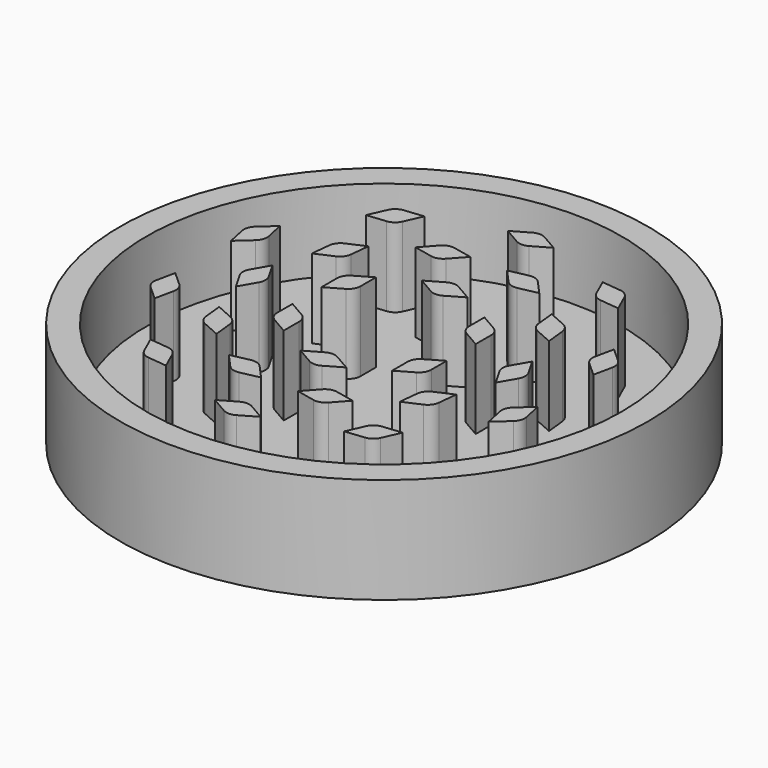
from build123d import *

# Parameters (mm, degrees)
F1_DEPTH = 6
F0_R     = 15
F0_R_2   = 13.5
F2_DEPTH = 6
F3_DEPTH = 1.5
F4_DEPTH = 6


with BuildPart() as f1:
    # F0 (on Top) → F1 (new body)
    with BuildSketch(Plane.XY):
        with BuildLine():
            Line((-6.720201, 8.670013), (-7.165926, 7.6689))
            Line((-7.165926, 7.6689), (-6.076074, 7.783448))
            ThreePointArc((-6.076074, 7.783448), (-5.737794, 7.913301), (-5.509762, 8.194897))
            Line((-5.509762, 8.194897), (-5.064038, 9.19601))
            Line((-5.064038, 9.19601), (-6.153889, 9.081462))
            ThreePointArc((-6.153889, 9.081462), (-6.492169, 8.951609), (-6.720201, 8.670013))
        make_face()
        with BuildLine():
            ThreePointArc((0.35, 10.96726), (0, 11.061043), (-0.35, 10.96726))
            Line((-0.35, 10.96726), (-1.299038, 10.419333))
            Line((-1.299038, 10.419333), (-0.35, 9.871406))
            ThreePointArc((-0.35, 9.871406), (0, 9.777623), (0.35, 9.871406))
            Line((0.35, 9.871406), (1.299038, 10.419333))
            Line((1.299038, 10.419333), (0.35, 10.96726))
        make_face()
        with BuildLine():
            Line((6.153889, 9.081462), (5.064038, 9.19601))
            Line((5.064038, 9.19601), (5.509762, 8.194897))
            ThreePointArc((5.509762, 8.194897), (5.737794, 7.913301), (6.076074, 7.783448))
            Line((6.076074, 7.783448), (7.165926, 7.6689))
            Line((7.165926, 7.6689), (6.720201, 8.670013))
            ThreePointArc((6.720201, 8.670013), (6.492169, 8.951609), (6.153889, 9.081462))
        make_face()
        with BuildLine():
            Line((10.307202, 3.73293), (9.492823, 4.4662))
            Line((9.492823, 4.4662), (9.264982, 3.394292))
            ThreePointArc((9.264982, 3.394292), (9.283946, 3.032442), (9.481294, 2.728552))
            Line((9.481294, 2.728552), (10.295673, 1.995282))
            Line((10.295673, 1.995282), (10.523514, 3.06719))
            ThreePointArc((10.523514, 3.06719), (10.50455, 3.42904), (10.307202, 3.73293))
        make_face()
        with BuildLine():
            Line((10.523514, -3.03538), (10.295673, -1.963473))
            Line((10.295673, -1.963473), (9.481294, -2.696743))
            ThreePointArc((9.481294, -2.696743), (9.283946, -3.000632), (9.264982, -3.362482))
            Line((9.264982, -3.362482), (9.492823, -4.43439))
            Line((9.492823, -4.43439), (10.307202, -3.70112))
            ThreePointArc((10.307202, -3.70112), (10.50455, -3.397231), (10.523514, -3.03538))
        make_face()
        with BuildLine():
            Line((6.720201, -8.638203), (7.165926, -7.63709))
            Line((7.165926, -7.63709), (6.076074, -7.751638))
            ThreePointArc((6.076074, -7.751638), (5.737794, -7.881491), (5.509762, -8.163088))
            Line((5.509762, -8.163088), (5.064038, -9.164201))
            Line((5.064038, -9.164201), (6.153889, -9.049653))
            ThreePointArc((6.153889, -9.049653), (6.492169, -8.919799), (6.720201, -8.638203))
        make_face()
        with BuildLine():
            Line((0.35, -10.935451), (1.299038, -10.387523))
            Line((1.299038, -10.387523), (0.35, -9.839596))
            ThreePointArc((0.35, -9.839596), (0, -9.745814), (-0.35, -9.839596))
            Line((-0.35, -9.839596), (-1.299038, -10.387523))
            Line((-1.299038, -10.387523), (-0.35, -10.935451))
            ThreePointArc((-0.35, -10.935451), (0, -11.029233), (0.35, -10.935451))
        make_face()
        with BuildLine():
            Line((-6.153889, -9.049653), (-5.064038, -9.164201))
            Line((-5.064038, -9.164201), (-5.509762, -8.163088))
            ThreePointArc((-5.509762, -8.163088), (-5.737794, -7.881491), (-6.076074, -7.751638))
            Line((-6.076074, -7.751638), (-7.165926, -7.63709))
            Line((-7.165926, -7.63709), (-6.720201, -8.638203))
            ThreePointArc((-6.720201, -8.638203), (-6.492169, -8.919799), (-6.153889, -9.049653))
        make_face()
        with BuildLine():
            Line((-10.307202, -3.70112), (-9.492823, -4.43439))
            Line((-9.492823, -4.43439), (-9.264982, -3.362482))
            ThreePointArc((-9.264982, -3.362482), (-9.283946, -3.000632), (-9.481294, -2.696743))
            Line((-9.481294, -2.696743), (-10.295673, -1.963473))
            Line((-10.295673, -1.963473), (-10.523514, -3.03538))
            ThreePointArc((-10.523514, -3.03538), (-10.50455, -3.397231), (-10.307202, -3.70112))
        make_face()
        with BuildLine():
            Line((-10.523514, 3.06719), (-10.295673, 1.995282))
            Line((-10.295673, 1.995282), (-9.481294, 2.728552))
            ThreePointArc((-9.481294, 2.728552), (-9.283946, 3.032442), (-9.264982, 3.394292))
            Line((-9.264982, 3.394292), (-9.492823, 4.4662))
            Line((-9.492823, 4.4662), (-10.307202, 3.73293))
            ThreePointArc((-10.307202, 3.73293), (-10.50455, 3.42904), (-10.523514, 3.06719))
        make_face()
    extrude(amount=F1_DEPTH)


with BuildPart() as f2:
    # F0 (on Top) → F2 (new body)
    with BuildSketch(Plane.XY):
        Circle(F0_R)
        Circle(F0_R_2, mode=Mode.SUBTRACT)
    extrude(amount=F2_DEPTH)


with BuildPart() as f3:
    # F0 (on Top) → F3 (new body)
    with BuildSketch(Plane.XY):
        Circle(F0_R_2)
        with BuildLine():
            Line((-5.509762, -8.163088), (-5.064038, -9.164201))
            Line((-5.064038, -9.164201), (-6.153889, -9.049653))
            ThreePointArc((-6.153889, -9.049653), (-6.492169, -8.919799), (-6.720201, -8.638203))
            Line((-6.720201, -8.638203), (-7.165926, -7.63709))
            Line((-7.165926, -7.63709), (-6.076074, -7.751638))
            ThreePointArc((-6.076074, -7.751638), (-5.737794, -7.881491), (-5.509762, -8.163088))
        make_face(mode=Mode.SUBTRACT)
        with BuildLine():
            Line((0.35, -9.839596), (1.299038, -10.387523))
            Line((1.299038, -10.387523), (0.35, -10.935451))
            ThreePointArc((0.35, -10.935451), (0, -11.029233), (-0.35, -10.935451))
            Line((-0.35, -10.935451), (-1.299038, -10.387523))
            Line((-1.299038, -10.387523), (-0.35, -9.839596))
            ThreePointArc((-0.35, -9.839596), (0, -9.745814), (0.35, -9.839596))
        make_face(mode=Mode.SUBTRACT)
        with BuildLine():
            Line((-9.264982, -3.362482), (-9.492823, -4.43439))
            Line((-9.492823, -4.43439), (-10.307202, -3.70112))
            ThreePointArc((-10.307202, -3.70112), (-10.50455, -3.397231), (-10.523514, -3.03538))
            Line((-10.523514, -3.03538), (-10.295673, -1.963473))
            Line((-10.295673, -1.963473), (-9.481294, -2.696743))
            ThreePointArc((-9.481294, -2.696743), (-9.283946, -3.000632), (-9.264982, -3.362482))
        make_face(mode=Mode.SUBTRACT)
        with BuildLine():
            ThreePointArc((-6.216465, -4.943226), (-6.497923, -4.715023), (-6.627572, -4.376665))
            Line((-6.627572, -4.376665), (-6.741462, -3.286745))
            Line((-6.741462, -3.286745), (-5.740618, -3.733074))
            ThreePointArc((-5.740618, -3.733074), (-5.45916, -3.961276), (-5.329511, -4.299634))
            Line((-5.329511, -4.299634), (-5.215621, -5.389554))
            Line((-5.215621, -5.389554), (-6.216465, -4.943226))
        make_face(mode=Mode.SUBTRACT)
        with BuildLine():
            ThreePointArc((-2.123671, -7.6531), (-2.485509, -7.633917), (-2.789279, -7.436386))
            Line((-2.789279, -7.436386), (-3.522057, -6.621564))
            Line((-3.522057, -6.621564), (-2.450012, -6.394371))
            ThreePointArc((-2.450012, -6.394371), (-2.088174, -6.413553), (-1.784403, -6.611085))
            Line((-1.784403, -6.611085), (-1.051625, -7.425906))
            Line((-1.051625, -7.425906), (-2.123671, -7.6531))
        make_face(mode=Mode.SUBTRACT)
        with BuildLine():
            ThreePointArc((-4.030722, -2.731284), (-4.28694, -2.475066), (-4.380722, -2.125066))
            Line((-4.380722, -2.125066), (-4.380722, -1.029211))
            Line((-4.380722, -1.029211), (-3.431684, -1.577138))
            ThreePointArc((-3.431684, -1.577138), (-3.175466, -1.833356), (-3.081684, -2.183356))
            Line((-3.081684, -2.183356), (-3.081684, -3.279211))
            Line((-3.081684, -3.279211), (-4.030722, -2.731284))
        make_face(mode=Mode.SUBTRACT)
        with BuildLine():
            Line((6.076074, -7.751638), (7.165926, -7.63709))
            Line((7.165926, -7.63709), (6.720201, -8.638203))
            ThreePointArc((6.720201, -8.638203), (6.492169, -8.919799), (6.153889, -9.049653))
            Line((6.153889, -9.049653), (5.064038, -9.164201))
            Line((5.064038, -9.164201), (5.509762, -8.163088))
            ThreePointArc((5.509762, -8.163088), (5.737794, -7.881491), (6.076074, -7.751638))
        make_face(mode=Mode.SUBTRACT)
        with BuildLine():
            ThreePointArc((2.780294, -7.43975), (2.476285, -7.636915), (2.114424, -7.65566))
            Line((2.114424, -7.65566), (1.042654, -7.427171))
            Line((1.042654, -7.427171), (1.776415, -6.613236))
            ThreePointArc((1.776415, -6.613236), (2.080424, -6.416071), (2.442285, -6.397326))
            Line((2.442285, -6.397326), (3.514055, -6.625814))
            Line((3.514055, -6.625814), (2.780294, -7.43975))
        make_face(mode=Mode.SUBTRACT)
        with BuildLine():
            ThreePointArc((0.35, -4.856349), (0, -4.950132), (-0.35, -4.856349))
            Line((-0.35, -4.856349), (-1.299038, -4.308422))
            Line((-1.299038, -4.308422), (-0.35, -3.760495))
            ThreePointArc((-0.35, -3.760495), (0, -3.666712), (0.35, -3.760495))
            Line((0.35, -3.760495), (1.299038, -4.308422))
            Line((1.299038, -4.308422), (0.35, -4.856349))
        make_face(mode=Mode.SUBTRACT)
        with BuildLine():
            ThreePointArc((6.62228, -4.384669), (6.492222, -4.72287), (6.210488, -4.950732))
            Line((6.210488, -4.950732), (5.209106, -5.395851))
            Line((5.209106, -5.395851), (5.324313, -4.306069))
            ThreePointArc((5.324313, -4.306069), (5.45437, -3.967868), (5.736104, -3.740006))
            Line((5.736104, -3.740006), (6.737486, -3.294886))
            Line((6.737486, -3.294886), (6.62228, -4.384669))
        make_face(mode=Mode.SUBTRACT)
        with BuildLine():
            ThreePointArc((4.380722, -2.125066), (4.28694, -2.475066), (4.030722, -2.731284))
            Line((4.030722, -2.731284), (3.081684, -3.279211))
            Line((3.081684, -3.279211), (3.081684, -2.183356))
            ThreePointArc((3.081684, -2.183356), (3.175466, -1.833356), (3.431684, -1.577138))
            Line((3.431684, -1.577138), (4.380722, -1.029211))
            Line((4.380722, -1.029211), (4.380722, -2.125066))
        make_face(mode=Mode.SUBTRACT)
        with BuildLine():
            ThreePointArc((7.934781, 0.345207), (8.028352, -0.004849), (7.934358, -0.354793))
            Line((7.934358, -0.354793), (7.385857, -1.3035))
            Line((7.385857, -1.3035), (6.838503, -0.354131))
            ThreePointArc((6.838503, -0.354131), (6.744932, -0.004074), (6.838926, 0.345869))
            Line((6.838926, 0.345869), (7.387427, 1.294576))
            Line((7.387427, 1.294576), (7.934781, 0.345207))
        make_face(mode=Mode.SUBTRACT)
        with BuildLine():
            Line((9.481294, -2.696743), (10.295673, -1.963473))
            Line((10.295673, -1.963473), (10.523514, -3.03538))
            ThreePointArc((10.523514, -3.03538), (10.50455, -3.397231), (10.307202, -3.70112))
            Line((10.307202, -3.70112), (9.492823, -4.43439))
            Line((9.492823, -4.43439), (9.264982, -3.362482))
            ThreePointArc((9.264982, -3.362482), (9.283946, -3.000632), (9.481294, -2.696743))
        make_face(mode=Mode.SUBTRACT)
        with BuildLine():
            Line((-9.481294, 2.728552), (-10.295673, 1.995282))
            Line((-10.295673, 1.995282), (-10.523514, 3.06719))
            ThreePointArc((-10.523514, 3.06719), (-10.50455, 3.42904), (-10.307202, 3.73293))
            Line((-10.307202, 3.73293), (-9.492823, 4.4662))
            Line((-9.492823, 4.4662), (-9.264982, 3.394292))
            ThreePointArc((-9.264982, 3.394292), (-9.283946, 3.032442), (-9.481294, 2.728552))
        make_face(mode=Mode.SUBTRACT)
        with BuildLine():
            ThreePointArc((-7.934781, -0.345207), (-8.028352, 0.004849), (-7.934358, 0.354793))
            Line((-7.934358, 0.354793), (-7.385857, 1.3035))
            Line((-7.385857, 1.3035), (-6.838503, 0.354131))
            ThreePointArc((-6.838503, 0.354131), (-6.744932, 0.004074), (-6.838926, -0.345869))
            Line((-6.838926, -0.345869), (-7.387427, -1.294576))
            Line((-7.387427, -1.294576), (-7.934781, -0.345207))
        make_face(mode=Mode.SUBTRACT)
        with BuildLine():
            ThreePointArc((-4.380722, 2.125066), (-4.28694, 2.475066), (-4.030722, 2.731284))
            Line((-4.030722, 2.731284), (-3.081684, 3.279211))
            Line((-3.081684, 3.279211), (-3.081684, 2.183356))
            ThreePointArc((-3.081684, 2.183356), (-3.175466, 1.833356), (-3.431684, 1.577138))
            Line((-3.431684, 1.577138), (-4.380722, 1.029211))
            Line((-4.380722, 1.029211), (-4.380722, 2.125066))
        make_face(mode=Mode.SUBTRACT)
        with BuildLine():
            ThreePointArc((-6.62228, 4.384669), (-6.492222, 4.72287), (-6.210488, 4.950732))
            Line((-6.210488, 4.950732), (-5.209106, 5.395851))
            Line((-5.209106, 5.395851), (-5.324313, 4.306069))
            ThreePointArc((-5.324313, 4.306069), (-5.45437, 3.967868), (-5.736104, 3.740006))
            Line((-5.736104, 3.740006), (-6.737486, 3.294886))
            Line((-6.737486, 3.294886), (-6.62228, 4.384669))
        make_face(mode=Mode.SUBTRACT)
        with BuildLine():
            Line((-2.442285, 6.397326), (-3.514055, 6.625814))
            Line((-3.514055, 6.625814), (-2.780294, 7.43975))
            ThreePointArc((-2.780294, 7.43975), (-2.476285, 7.636915), (-2.114424, 7.65566))
            Line((-2.114424, 7.65566), (-1.042654, 7.427171))
            Line((-1.042654, 7.427171), (-1.776415, 6.613236))
            ThreePointArc((-1.776415, 6.613236), (-2.080424, 6.416071), (-2.442285, 6.397326))
        make_face(mode=Mode.SUBTRACT)
        with BuildLine():
            Line((-6.076074, 7.783448), (-7.165926, 7.6689))
            Line((-7.165926, 7.6689), (-6.720201, 8.670013))
            ThreePointArc((-6.720201, 8.670013), (-6.492169, 8.951609), (-6.153889, 9.081462))
            Line((-6.153889, 9.081462), (-5.064038, 9.19601))
            Line((-5.064038, 9.19601), (-5.509762, 8.194897))
            ThreePointArc((-5.509762, 8.194897), (-5.737794, 7.913301), (-6.076074, 7.783448))
        make_face(mode=Mode.SUBTRACT)
        with BuildLine():
            ThreePointArc((4.030722, 2.731284), (4.28694, 2.475066), (4.380722, 2.125066))
            Line((4.380722, 2.125066), (4.380722, 1.029211))
            Line((4.380722, 1.029211), (3.431684, 1.577138))
            ThreePointArc((3.431684, 1.577138), (3.175466, 1.833356), (3.081684, 2.183356))
            Line((3.081684, 2.183356), (3.081684, 3.279211))
            Line((3.081684, 3.279211), (4.030722, 2.731284))
        make_face(mode=Mode.SUBTRACT)
        with BuildLine():
            Line((-0.35, 3.760495), (-1.299038, 4.308422))
            Line((-1.299038, 4.308422), (-0.35, 4.856349))
            ThreePointArc((-0.35, 4.856349), (0, 4.950132), (0.35, 4.856349))
            Line((0.35, 4.856349), (1.299038, 4.308422))
            Line((1.299038, 4.308422), (0.35, 3.760495))
            ThreePointArc((0.35, 3.760495), (0, 3.666712), (-0.35, 3.760495))
        make_face(mode=Mode.SUBTRACT)
        with BuildLine():
            ThreePointArc((2.123671, 7.6531), (2.485509, 7.633917), (2.789279, 7.436386))
            Line((2.789279, 7.436386), (3.522057, 6.621564))
            Line((3.522057, 6.621564), (2.450012, 6.394371))
            ThreePointArc((2.450012, 6.394371), (2.088174, 6.413553), (1.784403, 6.611085))
            Line((1.784403, 6.611085), (1.051625, 7.425906))
            Line((1.051625, 7.425906), (2.123671, 7.6531))
        make_face(mode=Mode.SUBTRACT)
        with BuildLine():
            ThreePointArc((6.216465, 4.943226), (6.497923, 4.715023), (6.627572, 4.376665))
            Line((6.627572, 4.376665), (6.741462, 3.286745))
            Line((6.741462, 3.286745), (5.740618, 3.733074))
            ThreePointArc((5.740618, 3.733074), (5.45916, 3.961276), (5.329511, 4.299634))
            Line((5.329511, 4.299634), (5.215621, 5.389554))
            Line((5.215621, 5.389554), (6.216465, 4.943226))
        make_face(mode=Mode.SUBTRACT)
        with BuildLine():
            Line((9.264982, 3.394292), (9.492823, 4.4662))
            Line((9.492823, 4.4662), (10.307202, 3.73293))
            ThreePointArc((10.307202, 3.73293), (10.50455, 3.42904), (10.523514, 3.06719))
            Line((10.523514, 3.06719), (10.295673, 1.995282))
            Line((10.295673, 1.995282), (9.481294, 2.728552))
            ThreePointArc((9.481294, 2.728552), (9.283946, 3.032442), (9.264982, 3.394292))
        make_face(mode=Mode.SUBTRACT)
        with BuildLine():
            Line((-1.299038, 10.419333), (-0.35, 10.96726))
            ThreePointArc((-0.35, 10.96726), (0, 11.061043), (0.35, 10.96726))
            Line((0.35, 10.96726), (1.299038, 10.419333))
            Line((1.299038, 10.419333), (0.35, 9.871406))
            ThreePointArc((0.35, 9.871406), (0, 9.777623), (-0.35, 9.871406))
            Line((-0.35, 9.871406), (-1.299038, 10.419333))
        make_face(mode=Mode.SUBTRACT)
        with BuildLine():
            Line((5.509762, 8.194897), (5.064038, 9.19601))
            Line((5.064038, 9.19601), (6.153889, 9.081462))
            ThreePointArc((6.153889, 9.081462), (6.492169, 8.951609), (6.720201, 8.670013))
            Line((6.720201, 8.670013), (7.165926, 7.6689))
            Line((7.165926, 7.6689), (6.076074, 7.783448))
            ThreePointArc((6.076074, 7.783448), (5.737794, 7.913301), (5.509762, 8.194897))
        make_face(mode=Mode.SUBTRACT)
    extrude(amount=F3_DEPTH)

    # F0 (on Top) → F4 (join)
    with BuildSketch(Plane.XY):
        with BuildLine():
            Line((-5.209106, 5.395851), (-6.210488, 4.950732))
            ThreePointArc((-6.210488, 4.950732), (-6.492222, 4.72287), (-6.62228, 4.384669))
            Line((-6.62228, 4.384669), (-6.737486, 3.294886))
            Line((-6.737486, 3.294886), (-5.736104, 3.740006))
            ThreePointArc((-5.736104, 3.740006), (-5.45437, 3.967868), (-5.324313, 4.306069))
            Line((-5.324313, 4.306069), (-5.209106, 5.395851))
        make_face()
        with BuildLine():
            Line((-2.780294, 7.43975), (-3.514055, 6.625814))
            Line((-3.514055, 6.625814), (-2.442285, 6.397326))
            ThreePointArc((-2.442285, 6.397326), (-2.080424, 6.416071), (-1.776415, 6.613236))
            Line((-1.776415, 6.613236), (-1.042654, 7.427171))
            Line((-1.042654, 7.427171), (-2.114424, 7.65566))
            ThreePointArc((-2.114424, 7.65566), (-2.476285, 7.636915), (-2.780294, 7.43975))
        make_face()
        with BuildLine():
            Line((3.522057, 6.621564), (2.789279, 7.436386))
            ThreePointArc((2.789279, 7.436386), (2.485509, 7.633917), (2.123671, 7.6531))
            Line((2.123671, 7.6531), (1.051625, 7.425906))
            Line((1.051625, 7.425906), (1.784403, 6.611085))
            ThreePointArc((1.784403, 6.611085), (2.088174, 6.413553), (2.450012, 6.394371))
            Line((2.450012, 6.394371), (3.522057, 6.621564))
        make_face()
        with BuildLine():
            Line((-0.35, 4.856349), (-1.299038, 4.308422))
            Line((-1.299038, 4.308422), (-0.35, 3.760495))
            ThreePointArc((-0.35, 3.760495), (0, 3.666712), (0.35, 3.760495))
            Line((0.35, 3.760495), (1.299038, 4.308422))
            Line((1.299038, 4.308422), (0.35, 4.856349))
            ThreePointArc((0.35, 4.856349), (0, 4.950132), (-0.35, 4.856349))
        make_face()
        with BuildLine():
            Line((-3.081684, 3.279211), (-4.030722, 2.731284))
            ThreePointArc((-4.030722, 2.731284), (-4.28694, 2.475066), (-4.380722, 2.125066))
            Line((-4.380722, 2.125066), (-4.380722, 1.029211))
            Line((-4.380722, 1.029211), (-3.431684, 1.577138))
            ThreePointArc((-3.431684, 1.577138), (-3.175466, 1.833356), (-3.081684, 2.183356))
            Line((-3.081684, 2.183356), (-3.081684, 3.279211))
        make_face()
        with BuildLine():
            Line((-7.385857, 1.3035), (-7.934358, 0.354793))
            ThreePointArc((-7.934358, 0.354793), (-8.028352, 0.004849), (-7.934781, -0.345207))
            Line((-7.934781, -0.345207), (-7.387427, -1.294576))
            Line((-7.387427, -1.294576), (-6.838926, -0.345869))
            ThreePointArc((-6.838926, -0.345869), (-6.744932, 0.004074), (-6.838503, 0.354131))
            Line((-6.838503, 0.354131), (-7.385857, 1.3035))
        make_face()
        with BuildLine():
            Line((4.380722, 1.029211), (4.380722, 2.125066))
            ThreePointArc((4.380722, 2.125066), (4.28694, 2.475066), (4.030722, 2.731284))
            Line((4.030722, 2.731284), (3.081684, 3.279211))
            Line((3.081684, 3.279211), (3.081684, 2.183356))
            ThreePointArc((3.081684, 2.183356), (3.175466, 1.833356), (3.431684, 1.577138))
            Line((3.431684, 1.577138), (4.380722, 1.029211))
        make_face()
        with BuildLine():
            Line((6.741462, 3.286745), (6.627572, 4.376665))
            ThreePointArc((6.627572, 4.376665), (6.497923, 4.715023), (6.216465, 4.943226))
            Line((6.216465, 4.943226), (5.215621, 5.389554))
            Line((5.215621, 5.389554), (5.329511, 4.299634))
            ThreePointArc((5.329511, 4.299634), (5.45916, 3.961276), (5.740618, 3.733074))
            Line((5.740618, 3.733074), (6.741462, 3.286745))
        make_face()
        with BuildLine():
            Line((3.081684, -3.279211), (4.030722, -2.731284))
            ThreePointArc((4.030722, -2.731284), (4.28694, -2.475066), (4.380722, -2.125066))
            Line((4.380722, -2.125066), (4.380722, -1.029211))
            Line((4.380722, -1.029211), (3.431684, -1.577138))
            ThreePointArc((3.431684, -1.577138), (3.175466, -1.833356), (3.081684, -2.183356))
            Line((3.081684, -2.183356), (3.081684, -3.279211))
        make_face()
        with BuildLine():
            Line((-4.380722, -1.029211), (-4.380722, -2.125066))
            ThreePointArc((-4.380722, -2.125066), (-4.28694, -2.475066), (-4.030722, -2.731284))
            Line((-4.030722, -2.731284), (-3.081684, -3.279211))
            Line((-3.081684, -3.279211), (-3.081684, -2.183356))
            ThreePointArc((-3.081684, -2.183356), (-3.175466, -1.833356), (-3.431684, -1.577138))
            Line((-3.431684, -1.577138), (-4.380722, -1.029211))
        make_face()
        with BuildLine():
            Line((7.385857, -1.3035), (7.934358, -0.354793))
            ThreePointArc((7.934358, -0.354793), (8.028352, -0.004849), (7.934781, 0.345207))
            Line((7.934781, 0.345207), (7.387427, 1.294576))
            Line((7.387427, 1.294576), (6.838926, 0.345869))
            ThreePointArc((6.838926, 0.345869), (6.744932, -0.004074), (6.838503, -0.354131))
            Line((6.838503, -0.354131), (7.385857, -1.3035))
        make_face()
        with BuildLine():
            Line((5.209106, -5.395851), (6.210488, -4.950732))
            ThreePointArc((6.210488, -4.950732), (6.492222, -4.72287), (6.62228, -4.384669))
            Line((6.62228, -4.384669), (6.737486, -3.294886))
            Line((6.737486, -3.294886), (5.736104, -3.740006))
            ThreePointArc((5.736104, -3.740006), (5.45437, -3.967868), (5.324313, -4.306069))
            Line((5.324313, -4.306069), (5.209106, -5.395851))
        make_face()
        with BuildLine():
            Line((-1.299038, -4.308422), (-0.35, -4.856349))
            ThreePointArc((-0.35, -4.856349), (0, -4.950132), (0.35, -4.856349))
            Line((0.35, -4.856349), (1.299038, -4.308422))
            Line((1.299038, -4.308422), (0.35, -3.760495))
            ThreePointArc((0.35, -3.760495), (0, -3.666712), (-0.35, -3.760495))
            Line((-0.35, -3.760495), (-1.299038, -4.308422))
        make_face()
        with BuildLine():
            Line((1.042654, -7.427171), (2.114424, -7.65566))
            ThreePointArc((2.114424, -7.65566), (2.476285, -7.636915), (2.780294, -7.43975))
            Line((2.780294, -7.43975), (3.514055, -6.625814))
            Line((3.514055, -6.625814), (2.442285, -6.397326))
            ThreePointArc((2.442285, -6.397326), (2.080424, -6.416071), (1.776415, -6.613236))
            Line((1.776415, -6.613236), (1.042654, -7.427171))
        make_face()
        with BuildLine():
            Line((-3.522057, -6.621564), (-2.789279, -7.436386))
            ThreePointArc((-2.789279, -7.436386), (-2.485509, -7.633917), (-2.123671, -7.6531))
            Line((-2.123671, -7.6531), (-1.051625, -7.425906))
            Line((-1.051625, -7.425906), (-1.784403, -6.611085))
            ThreePointArc((-1.784403, -6.611085), (-2.088174, -6.413553), (-2.450012, -6.394371))
            Line((-2.450012, -6.394371), (-3.522057, -6.621564))
        make_face()
        with BuildLine():
            Line((-6.741462, -3.286745), (-6.627572, -4.376665))
            ThreePointArc((-6.627572, -4.376665), (-6.497923, -4.715023), (-6.216465, -4.943226))
            Line((-6.216465, -4.943226), (-5.215621, -5.389554))
            Line((-5.215621, -5.389554), (-5.329511, -4.299634))
            ThreePointArc((-5.329511, -4.299634), (-5.45916, -3.961276), (-5.740618, -3.733074))
            Line((-5.740618, -3.733074), (-6.741462, -3.286745))
        make_face()
    extrude(amount=F4_DEPTH)


solid = Compound([f1.part, f2.part, f3.part])
